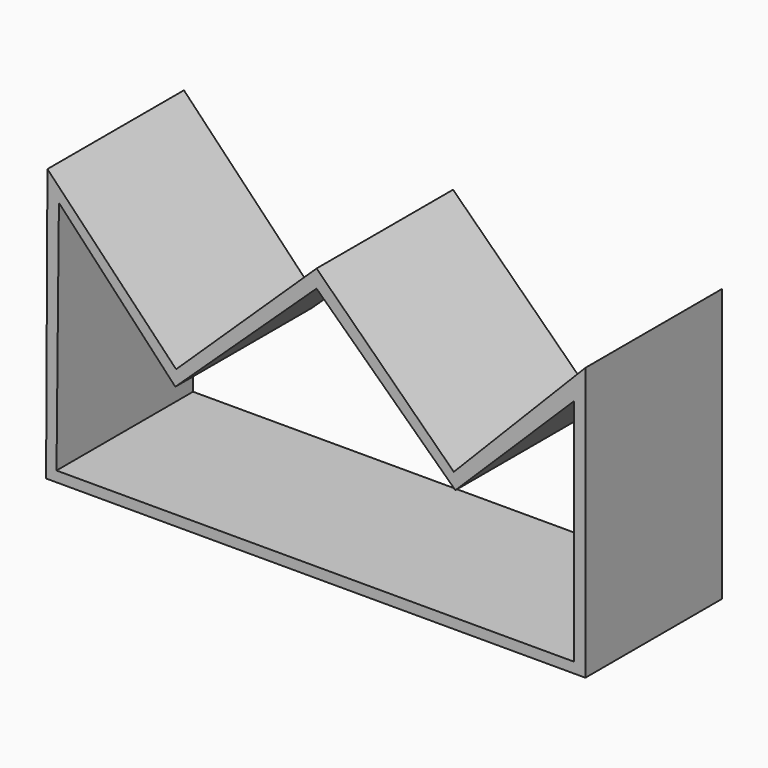
from build123d import *

# Parameters (mm, degrees)
F2_DEPTH = 48.26
F3_DEPTH = 108.966


with BuildPart() as f2:
    # F0 (on Front) → F2 (new body)
    with BuildSketch(Plane.XZ):
        Polygon((-76.110834, 38.018938), (-76.491833, -39.153829), (76.037876, -39.153829), (76.037876, 38.018938), (38.81336, 0), (0, 38.018938), (-39.721277, 0), align=None)
    extrude(amount=F2_DEPTH)

    # F1 (on Front) → F3 (cut)
    with BuildSketch(Plane.XZ):
        Polygon((-72.862528, 30.682474), (-73.541112, -36.203109), (72.860174, -36.203109), (72.860174, 28.712809), (39.26732, -4.426085), (0, 33.025403), (-39.948255, -4.426085), align=None)
    extrude(amount=F3_DEPTH, mode=Mode.SUBTRACT)


solid = f2.part
